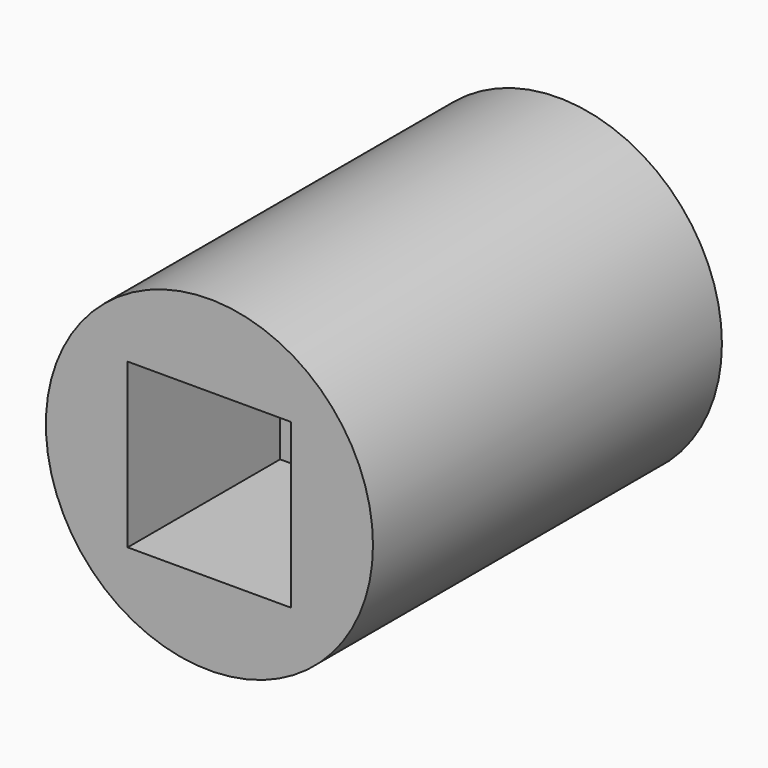
from build123d import *

# Parameters (mm, degrees)
F0_R     = 9.525
F1_DEPTH = 25.4
F3_DEPTH = 25.401
F4_DEPTH = 11.0998
F6_DEPTH = 9.525


with BuildPart() as f1:
    # F0 (on Front) → F1 (new body)
    with BuildSketch(Plane.XZ):
        Circle(F0_R)
    extrude(amount=F1_DEPTH)

    # F2 (on face) → F3 (cut, through all)
    with BuildSketch(Plane.XZ.offset(25.4)):
        with BuildLine():
            ThreePointArc((4.7625, 0), (3.367596, 3.367596), (0, 4.7625))
            ThreePointArc((0, 4.7625), (-3.367596, 3.367596), (-4.7625, 0))
            ThreePointArc((-4.7625, 0), (-3.367596, -3.367596), (0, -4.7625))
            ThreePointArc((0, -4.7625), (3.367596, -3.367596), (4.7625, 0))
        make_face()
    extrude(amount=-F3_DEPTH, mode=Mode.SUBTRACT)

    # F2 (on face) → F4 (cut)
    with BuildSketch(Plane.XZ.offset(25.4)):
        with BuildLine():
            Line((4.7625, 0), (4.7625, 4.7625))
            Line((4.7625, 4.7625), (0, 4.7625))
            ThreePointArc((0, 4.7625), (3.367596, 3.367596), (4.7625, 0))
        make_face()
        with BuildLine():
            ThreePointArc((-4.7625, 0), (-3.367596, 3.367596), (0, 4.7625))
            Line((0, 4.7625), (-4.7625, 4.7625))
            Line((-4.7625, 4.7625), (-4.7625, 0))
        make_face()
        with BuildLine():
            Line((4.7625, -4.7625), (4.7625, 0))
            ThreePointArc((4.7625, 0), (3.367596, -3.367596), (0, -4.7625))
            Line((0, -4.7625), (4.7625, -4.7625))
        make_face()
        with BuildLine():
            ThreePointArc((0, -4.7625), (-3.367596, -3.367596), (-4.7625, 0))
            Line((-4.7625, 0), (-4.7625, -4.7625))
            Line((-4.7625, -4.7625), (0, -4.7625))
        make_face()
    extrude(amount=-F4_DEPTH, mode=Mode.SUBTRACT)

    # F5 (on face) → F6 (cut)
    with BuildSketch(Plane(origin=(0, 0, 0), x_dir=(-1, 0, 0), z_dir=(0, 1, 0))):
        Polygon((3.932339, 6.811012), (-3.932339, 6.811012), (-7.864679, 0), (-3.932339, -6.811012), (3.932339, -6.811012), (7.864679, 0), align=None)
    extrude(amount=-F6_DEPTH, mode=Mode.SUBTRACT)


solid = f1.part
